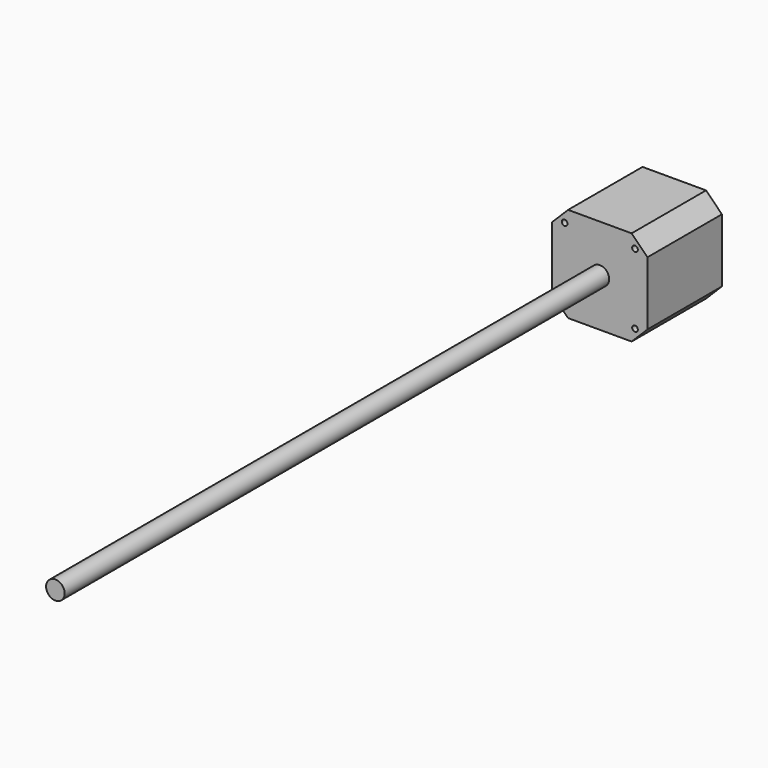
from build123d import *

# Parameters (mm, degrees)
F0_R     = 1.25
F0_R_2   = 4.1
F1_DEPTH = 41
F2_DEPTH = 341


with BuildPart() as f1:
    # F0 (on Front) → F1 (new body)
    with BuildSketch(Plane.XZ):
        Polygon((21, 14), (14, 21), (-14, 21), (-21, 14), (-21, -14), (-14, -21), (14, -21), (21, -14), align=None)
        with Locations((-15.5, -15.5)):
            Circle(F0_R, mode=Mode.SUBTRACT)
        with Locations((15.5, -15.5)):
            Circle(F0_R, mode=Mode.SUBTRACT)
        with Locations((-15.5, 15.5)):
            Circle(F0_R, mode=Mode.SUBTRACT)
        Circle(F0_R_2, mode=Mode.SUBTRACT)
        with Locations((15.5, 15.5)):
            Circle(F0_R, mode=Mode.SUBTRACT)
    extrude(amount=F1_DEPTH)

    # F0 (on Front) → F2 (join)
    with BuildSketch(Plane.XZ):
        Circle(F0_R_2)
    extrude(amount=F2_DEPTH)


solid = f1.part
